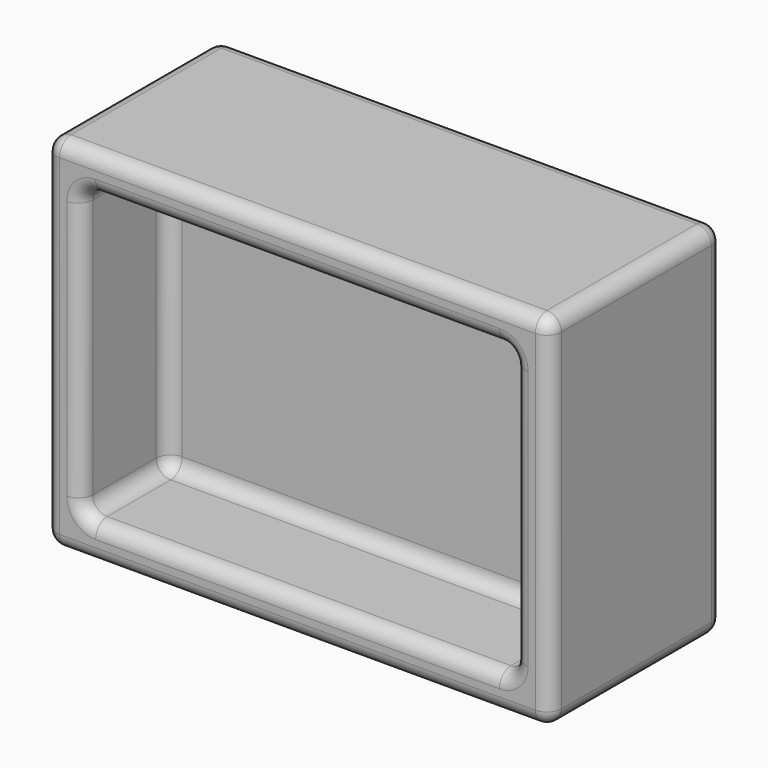
from build123d import *

# Parameters (mm, degrees)
F0_W     = 177.8
F0_H     = 127
F0_W_2   = 152.4
F0_H_2   = 101.6
F1_DEPTH = 76.2
F2_DEPTH = 38.1
F3_R     = 5.08


with BuildPart() as f1:
    # F0 (on Front) → F1 (new body)
    with BuildSketch(Plane.XZ):
        Rectangle(F0_W, F0_H)
        Rectangle(F0_W_2, F0_H_2, mode=Mode.SUBTRACT)
    extrude(amount=F1_DEPTH)

    # F0 (on Front) → F2 (join)
    with BuildSketch(Plane.XZ):
        Rectangle(F0_W_2, F0_H_2)
    extrude(amount=F2_DEPTH)

    # F3
    f3_edges = [f1.edges().sort_by_distance(p)[0] for p in [
        (-88.9, -76.2, 0),
        (0, -76.2, 63.5),
        (0, -76.2, -63.5),
        (88.9, -76.2, 0),
        (-76.2, -76.2, 0),
        (0, -76.2, 50.8),
        (76.2, -76.2, 0),
        (0, -76.2, -50.8),
        (0, -38.1, 50.8),
        (76.2, -57.15, 50.8),
        (76.2, -38.1, 0),
        (76.2, -57.15, -50.8),
        (0, -38.1, -50.8),
        (-76.2, -57.15, 50.8),
        (-76.2, -38.1, 0),
        (-76.2, -57.15, -50.8),
        (-88.9, -38.1, 63.5),
        (0, 0, -63.5),
        (-88.9, 0, 0),
        (-88.9, -38.1, -63.5),
        (88.9, -38.1, -63.5),
        (88.9, -38.1, 63.5),
        (88.9, 0, 0),
        (0, 0, 63.5),
    ]]
    fillet(f3_edges, radius=F3_R)


solid = f1.part
